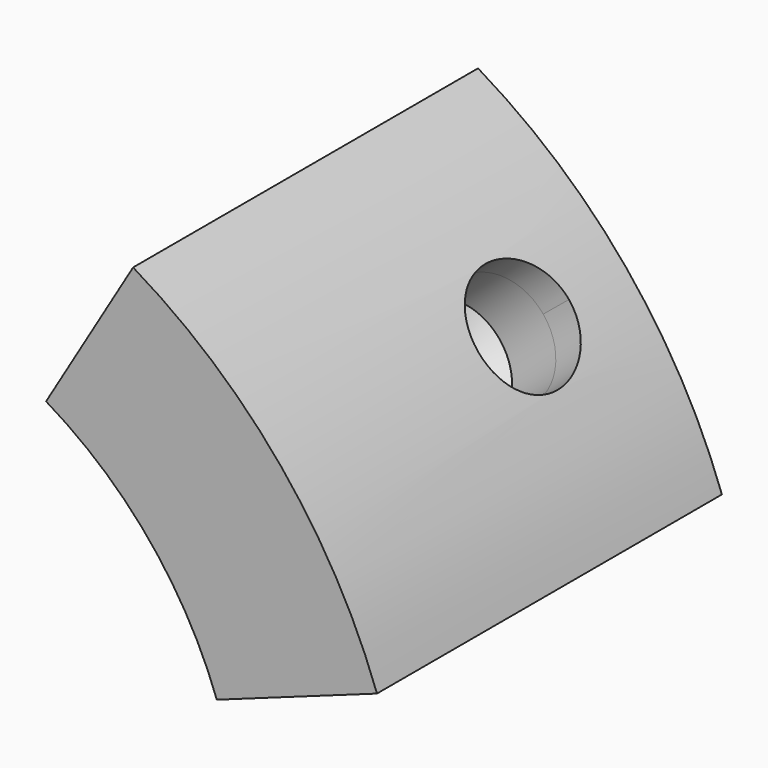
from build123d import *

# Parameters (mm, degrees)
F2_DEPTH = 25.4
F3_DEPTH = 5
F6_D     = 8
F6_DEPTH = 5
F6_TIP   = 2.4034424761
F7_D     = 8
F7_DEPTH = 4
F7_TIP   = 2.4034424761
F8_R     = 3


with BuildPart() as f2:
    # F0 (on Front) → F2 (new body)
    with BuildSketch(Plane.XZ):
        with BuildLine():
            Line((26.353785117, 9.4592816856), (37.6482644529, 13.5132595508))
            ThreePointArc((37.6482644529, 13.5132595508), (30.8672872021, 25.4403337396), (20.4548362885, 34.3744043208))
            Line((20.4548362885, 34.3744043208), (14.3183854019, 24.0620830246))
            ThreePointArc((14.3183854019, 24.0620830246), (21.6071010415, 17.8082336177), (26.353785117, 9.4592816856))
        make_face()
    extrude(amount=F2_DEPTH)

    # F1 (on Front) + F0 (on Front) → F3 (join)
    with BuildSketch(Plane.XZ):
        with BuildLine():
            ThreePointArc((12.2729017731, 20.6246425925), (18.5203723213, 15.2642002437), (22.5889586717, 8.1079557305))
            Line((22.5889586717, 8.1079557305), (37.6482644529, 13.5132595508))
            ThreePointArc((37.6482644529, 13.5132595508), (30.8672872021, 25.4403337396), (20.4548362885, 34.3744043208))
            Line((20.4548362885, 34.3744043208), (12.2729017731, 20.6246425925))
        make_face()
    with BuildSketch(Plane.XZ):
        with BuildLine():
            Line((26.353785117, 9.4592816856), (37.6482644529, 13.5132595508))
            ThreePointArc((37.6482644529, 13.5132595508), (30.8672872021, 25.4403337396), (20.4548362885, 34.3744043208))
            Line((20.4548362885, 34.3744043208), (14.3183854019, 24.0620830246))
            ThreePointArc((14.3183854019, 24.0620830246), (21.6071010415, 17.8082336177), (26.353785117, 9.4592816856))
        make_face()
    extrude(amount=-F3_DEPTH)

    # F6 (one way)
    with BuildSketch(Plane(origin=(29.0515503707, 0, 23.9438319358), x_dir=(0, 1, 0), z_dir=(-0.7716821801, 0, -0.6360083435))):
        with Locations((-4, 0)):
            Circle(F6_D / 2)
    extrude(amount=-F6_DEPTH, mode=Mode.SUBTRACT)
    with Locations(Plane(origin=(29.0515503707, 0, 23.9438319358), x_dir=(0, 1, 0), z_dir=(-0.7716821801, 0, -0.6360083435))):
        with Locations((-4, 0)):
            with Locations((0, 0, -(F6_DEPTH + F6_TIP / 2))):  # 118° drill point
                Cone(0, F6_D / 2, F6_TIP, mode=Mode.SUBTRACT)

    # F7
    with Locations(Plane(origin=(29.0515503707, 0, 23.9438319358), x_dir=(0, 1, 0), z_dir=(0.7716821801, 0, 0.6360083435))):
        with Locations((-4, 0)):
            Hole(F7_D / 2, depth=F7_DEPTH)
            with Locations((0, 0, -(F7_DEPTH + F7_TIP / 2))):  # 118° drill point
                Cone(0, F7_D / 2, F7_TIP, mode=Mode.SUBTRACT)

    # F8
    f8_edges = [f2.edges().sort_by_distance(p)[0] for p in [
        (18.520372, 5, 15.2642),
    ]]
    fillet(f8_edges, radius=F8_R)


solid = f2.part
